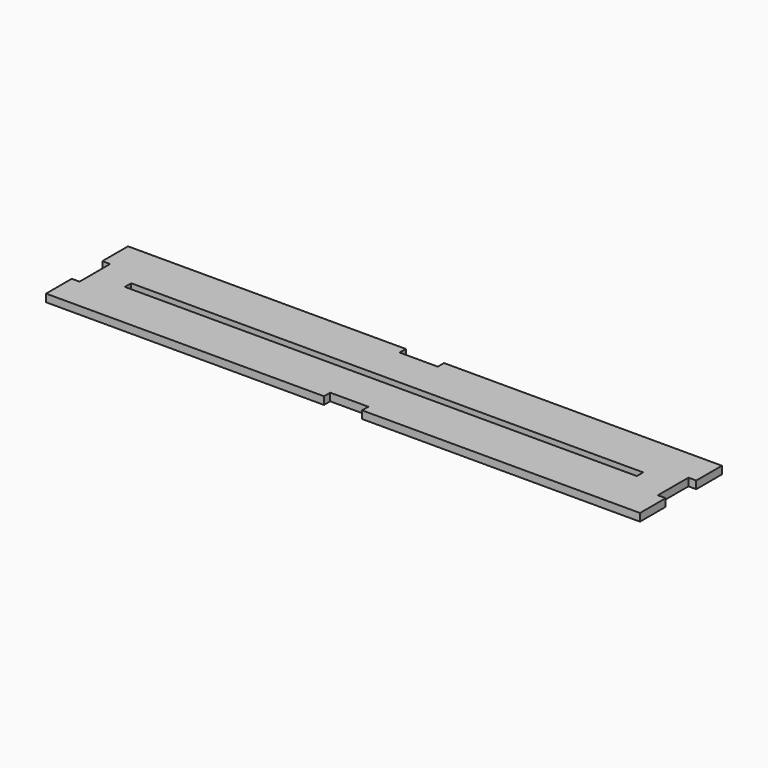
from build123d import *

# Parameters (mm, degrees)
F0_W     = 200
F0_H     = 3.1
F1_DEPTH = 3


with BuildPart() as f1:
    # F0 (on Top) → F1 (new body)
    with BuildSketch(Plane.XY):
        Polygon((7.45, -20), (116, -20), (116, -7.45), (112.95, -7.45), (112.95, 7.45), (116, 7.45), (116, 20), (7.45, 20), (7.45, 16.95), (-7.45, 16.95), (-7.45, 20), (-116, 20), (-116, 7.45), (-112.95, 7.45), (-112.95, -7.45), (-116, -7.45), (-116, -20), (-7.45, -20), (-7.45, -16.95), (7.45, -16.95), align=None)
        Rectangle(F0_W, F0_H, mode=Mode.SUBTRACT)
    extrude(amount=F1_DEPTH)


solid = f1.part
